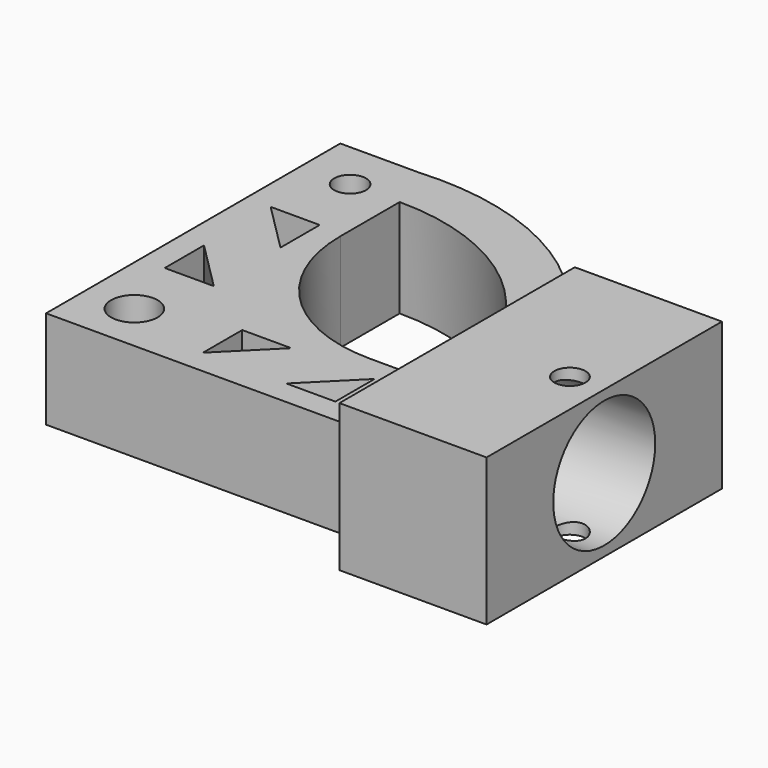
from build123d import *

# Parameters (mm, degrees)
F0_R     = 3.175
F0_R_2   = 4.75
F1_DEPTH = 20
F2_DEPTH = 30
F3_R     = 13
F4_DEPTH = 25


with BuildPart() as f1:
    # F0 (on Top) → F1 (new body)
    with BuildSketch(Plane.XY):
        with BuildLine():
            ThreePointArc((45.6904160883, -5.5314753587), (43.8303978971, -19.7324153288), (38.3758278236, -32.9753013065))
            Line((38.3758278236, -32.9753013065), (38.3758278236, -35.5302935839))
            Line((38.3758278236, -35.5302935839), (68.3758278236, -35.5302935839))
            Line((68.3758278236, -35.5302935839), (68.3758278236, 24.4697064161))
            Line((68.3758278236, 24.4697064161), (38.3758278236, 24.4697064161))
            Line((38.3758278236, 24.4697064161), (38.3758278236, 21.9123505891))
            ThreePointArc((38.3758278236, 21.9123505891), (43.8303978971, 8.6694646114), (45.6904160883, -5.5314753587))
        make_face()
        with Locations((61.3758278236, -5.5302935839)):
            Circle(F0_R, mode=Mode.SUBTRACT)
        with BuildLine():
            ThreePointArc((35.6904160883, -5.5314753587), (34.5069545017, -15.8000971879), (31.0186234261, -25.5302935839))
            Line((31.0186234261, -25.5302935839), (38.3758278236, -25.5302935839))
            Line((38.3758278236, -25.5302935839), (38.3758278236, -5.5302935839))
            Line((38.3758278236, -5.5302935839), (35.6904160728, -5.5302935839))
            ThreePointArc((35.6904160728, -5.5302935839), (35.6904160844, -5.5308844713), (35.6904160883, -5.5314753587))
        make_face()
        with BuildLine():
            ThreePointArc((-22.2183206005, 37.7662119119), (-25.8953821372, 36.5074722173), (-29.4505405381, 34.937104137))
            Line((-29.4505405381, 34.937104137), (-29.4505405381, -25.5302935839))
            Line((-29.4505405381, -25.5302935839), (-9.4505405381, -25.5302935839))
            Line((-9.4505405381, -25.5302935839), (31.0186234261, -25.5302935839))
            ThreePointArc((31.0186234261, -25.5302935839), (34.5069545017, -15.8000971879), (35.6904160883, -5.5314753587))
            ThreePointArc((35.6904160883, -5.5314753587), (35.6904160844, -5.5308844713), (35.6904160728, -5.5302935839))
            Line((35.6904160728, -5.5302935839), (20.5494594619, -5.5302935839))
            ThreePointArc((20.5494594619, -5.5302935839), (-0.6637439737, 3.2565029805), (-9.4505405381, 24.4697064161))
            Line((-9.4505405381, 24.4697064161), (-9.4505405381, 39.6094809703))
            ThreePointArc((-9.4505405381, 39.6094809703), (-12.8457783614, 39.4816149196), (-16.2217815185, 39.0987411975))
            ThreePointArc((-16.2217815185, 39.0987411975), (-18.7455341736, 36.2970945543), (-22.2183206005, 37.7662119119))
        make_face()
        with Locations((-19.4505405381, -15.5302935839)):
            Circle(F0_R_2, mode=Mode.SUBTRACT)
        Polygon((-1.4505405381, -10.5302935839), (8.5494594619, -10.5302935839), (-1.4505405381, -20.5302935839), align=None, mode=Mode.SUBTRACT)
        Polygon((25.5494594619, -20.5302935839), (15.5494594619, -20.5302935839), (25.5494594619, -10.5302935839), align=None, mode=Mode.SUBTRACT)
        Polygon((-24.4505405381, -1.5302935839), (-24.4505405381, 8.4697064161), (-14.4505405381, -1.5302935839), align=None, mode=Mode.SUBTRACT)
        Polygon((-14.4505405381, 25.4697064161), (-14.4505405381, 15.4697064161), (-24.4505405381, 25.4697064161), align=None, mode=Mode.SUBTRACT)
        with BuildLine():
            Line((-9.4505405381, 49.4697064161), (-13.3741952012, 49.4697064161))
            ThreePointArc((-13.3741952012, 49.4697064161), (-21.5481694996, 48.2660378849), (-29.4505405381, 45.8545641168))
            Line((-29.4505405381, 45.8545641168), (-29.4505405381, 34.937104137))
            ThreePointArc((-29.4505405381, 34.937104137), (-25.8953821372, 36.5074722173), (-22.2183206005, 37.7662119119))
            ThreePointArc((-22.2183206005, 37.7662119119), (-20.3357565561, 42.5968285118), (-16.2005405381, 39.4697064161))
            ThreePointArc((-16.2005405381, 39.4697064161), (-16.2058551286, 39.283919998), (-16.2217815185, 39.0987411975))
            ThreePointArc((-16.2217815185, 39.0987411975), (-12.8457783614, 39.4816149196), (-9.4505405381, 39.6094809703))
            Line((-9.4505405381, 39.6094809703), (-9.4505405381, 49.4697064161))
        make_face()
        with BuildLine():
            ThreePointArc((29.8809127675, 33.1151528142), (10.0506365578, 46.0459341182), (-13.3741952012, 49.4697064161))
            Line((-13.3741952012, 49.4697064161), (-9.4505405381, 49.4697064161))
            Line((-9.4505405381, 49.4697064161), (-9.4505405381, 39.6094809703))
            ThreePointArc((-9.4505405381, 39.6094809703), (22.4685181604, 26.3884188937), (35.6904160728, -5.5302935839))
            Line((35.6904160728, -5.5302935839), (38.3758278236, -5.5302935839))
            Line((38.3758278236, -5.5302935839), (38.3758278236, 21.9123505891))
            ThreePointArc((38.3758278236, 21.9123505891), (34.4868827374, 27.7856062501), (29.8809127675, 33.1151528142))
        make_face()
        with BuildLine():
            Line((-13.3741952012, 49.4697064161), (-29.4505405381, 49.4697064161))
            Line((-29.4505405381, 49.4697064161), (-29.4505405381, 45.8545641168))
            ThreePointArc((-29.4505405381, 45.8545641168), (-21.5481694996, 48.2660378849), (-13.3741952012, 49.4697064161))
        make_face()
        with BuildLine():
            Line((38.3758278236, 24.4697064161), (29.8809127675, 33.1151528142))
            ThreePointArc((29.8809127675, 33.1151528142), (34.4868827374, 27.7856062501), (38.3758278236, 21.9123505891))
            Line((38.3758278236, 21.9123505891), (38.3758278236, 24.4697064161))
        make_face()
    extrude(amount=F1_DEPTH)

    # F0 (on Top) → F2 (join)
    with BuildSketch(Plane.XY):
        with BuildLine():
            Line((38.3758278236, -25.5302935839), (38.3758278236, -32.9753013065))
            ThreePointArc((38.3758278236, -32.9753013065), (43.8303978971, -19.7324153288), (45.6904160883, -5.5314753587))
            ThreePointArc((45.6904160883, -5.5314753587), (43.8303978971, 8.6694646114), (38.3758278236, 21.9123505891))
            Line((38.3758278236, 21.9123505891), (38.3758278236, -5.5302935839))
            Line((38.3758278236, -5.5302935839), (38.3758278236, -25.5302935839))
        make_face()
        with BuildLine():
            ThreePointArc((45.6904160883, -5.5314753587), (43.8303978971, -19.7324153288), (38.3758278236, -32.9753013065))
            Line((38.3758278236, -32.9753013065), (38.3758278236, -35.5302935839))
            Line((38.3758278236, -35.5302935839), (68.3758278236, -35.5302935839))
            Line((68.3758278236, -35.5302935839), (68.3758278236, 24.4697064161))
            Line((68.3758278236, 24.4697064161), (38.3758278236, 24.4697064161))
            Line((38.3758278236, 24.4697064161), (38.3758278236, 21.9123505891))
            ThreePointArc((38.3758278236, 21.9123505891), (43.8303978971, 8.6694646114), (45.6904160883, -5.5314753587))
        make_face()
        with Locations((61.3758278236, -5.5302935839)):
            Circle(F0_R, mode=Mode.SUBTRACT)
    extrude(amount=F2_DEPTH)

    # F3 (on face) → F4 (cut)
    with BuildSketch(Plane.YZ.offset(68.3758278236)):
        with Locations((-5.5302935839, 15)):
            Circle(F3_R)
    extrude(amount=-F4_DEPTH, mode=Mode.SUBTRACT)


solid = f1.part
